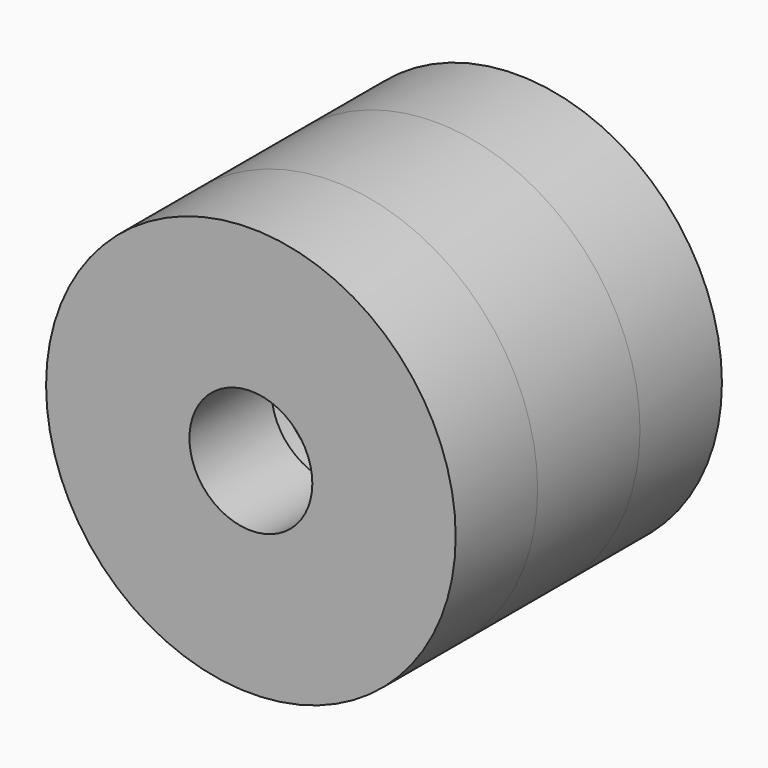
from build123d import *

# Parameters (mm, degrees)
F0_R     = 25.4
F0_R_2   = 7.62
F1_DEPTH = 12.7
F2_R     = 25.4
F3_DEPTH = 15.875
F4_R     = 25.4
F4_R_2   = 7.62
F5_DEPTH = 12.7


with BuildPart() as f1:
    # F0 (on Front) → F1 (new body)
    with BuildSketch(Plane.XZ):
        Circle(F0_R)
        Circle(F0_R_2, mode=Mode.SUBTRACT)
    extrude(amount=F1_DEPTH)

    # F2 (on face) → F3 (join)
    with BuildSketch(Plane(origin=(0, 0, 0), x_dir=(-1, 0, 0), z_dir=(0, 1, 0))):
        Circle(F2_R)
        with BuildLine():
            ThreePointArc((1.905, 22.143207), (0, -22.225), (-1.905, 22.143207))
            ThreePointArc((-1.905, 22.143207), (0, 22.491378), (1.905, 22.143207))
        make_face(mode=Mode.SUBTRACT)
    extrude(amount=F3_DEPTH)

    # F4 (on face) → F5 (join)
    with BuildSketch(Plane(origin=(0, 15.875, 0), x_dir=(-1, 0, 0), z_dir=(0, 1, 0))):
        Circle(F4_R)
        Circle(F4_R_2, mode=Mode.SUBTRACT)
    extrude(amount=F5_DEPTH)


solid = f1.part
